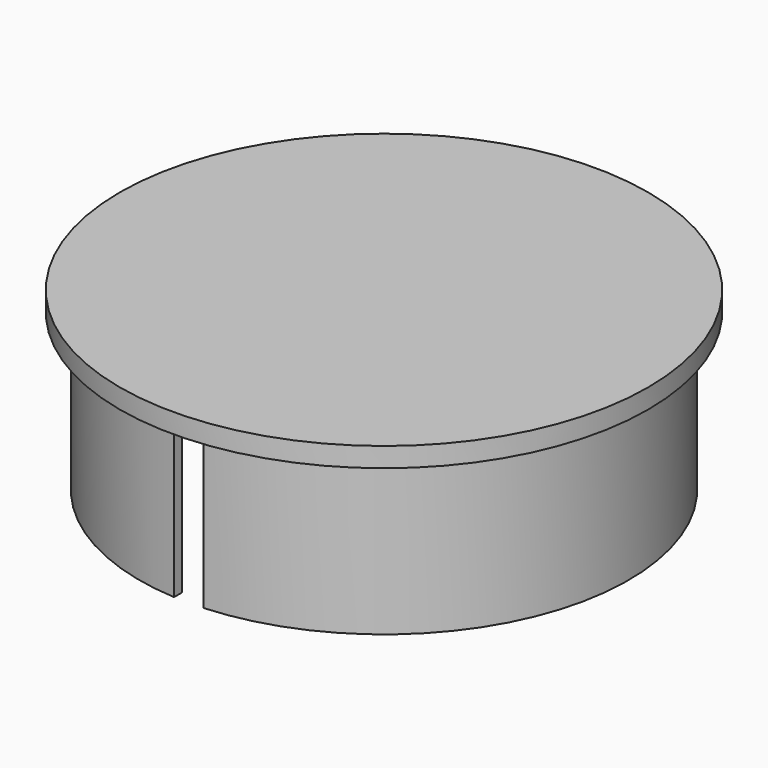
from build123d import *

# Parameters (mm, degrees)
F2_W     = 4.7625
F2_H     = 25.4
F3_DEPTH = 42.8635


with BuildPart() as f1:
    # F0 (on Front) → F1 (revolve)
    with BuildSketch(Plane.XZ):
        Polygon((-39.6875, 0), (-38.1, 0), (-38.1, 25.4), (0, 25.4), (0, 28.575), (-42.8625, 28.575), (-42.8625, 25.4), (-39.6875, 25.4), align=None)
    revolve(axis=Axis((0, 0, 14.2875), (0, 0, 1)))

    # F2 (on Front) → F3 (cut, through all)
    with BuildSketch(Plane.XZ):
        with Locations((0, 12.7)):
            Rectangle(F2_W, F2_H)
    extrude(amount=F3_DEPTH, mode=Mode.SUBTRACT)


solid = f1.part
